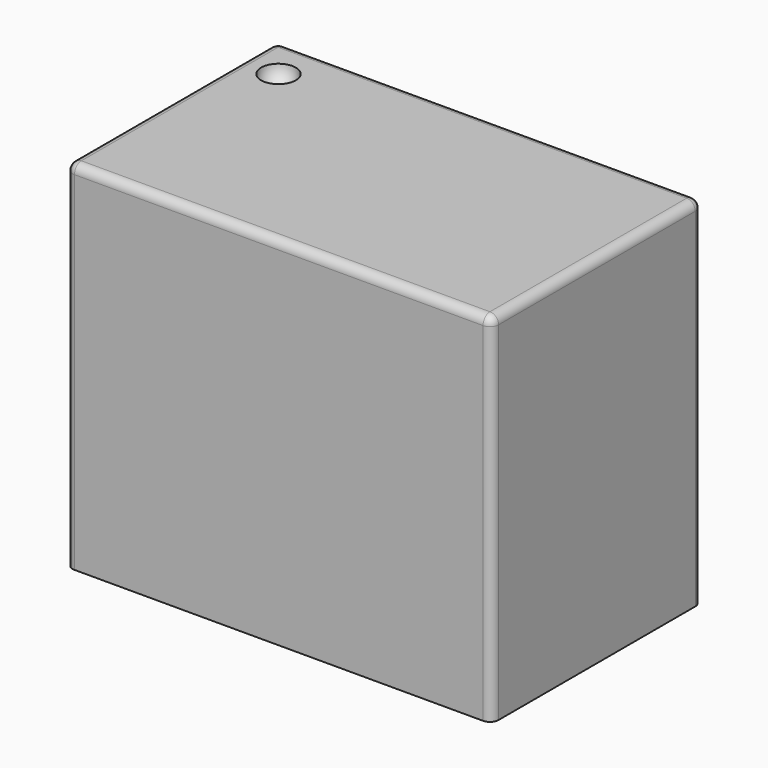
from build123d import *

# Parameters (mm, degrees)
SKETCH_W  = 12.3
SKETCH_H  = 7.6
PAD_DEPTH = 10.3
FILLET_R  = 0.25


with BuildPart() as part:
    # Sketch → Pad (new body)
    with BuildSketch(Plane.XY):
        with Locations((5.08, -2.54)):
            Rectangle(SKETCH_W, SKETCH_H)
    extrude(amount=PAD_DEPTH)

    # Fillet
    fillet_edges = [part.edges().sort_by_distance(p)[0] for p in [
        (5.08, 1.26, 10.3),
        (11.23, -2.54, 10.3),
        (5.08, -6.34, 10.3),
        (-1.07, -2.54, 10.3),
        (11.23, 1.26, 5.15),
        (-1.07, 1.26, 5.15),
        (11.23, -6.34, 5.15),
        (-1.07, -6.34, 5.15),
    ]]
    fillet(fillet_edges, radius=FILLET_R)

    # Sphere → Sphere (revolve, cut)
    with BuildSketch(Plane(origin=(0, 0, 10.3), x_dir=(1, 0, 0), z_dir=(0, -1, 0))):
        with BuildLine():
            ThreePointArc((0, -0.5), (0.5, 0), (0, 0.5))
            Line((0, 0.5), (0, -0.5))
        make_face()
    revolve(axis=Axis((0, 0, 10.3), (0, 0, 1)), mode=Mode.SUBTRACT)


solid = part.part
